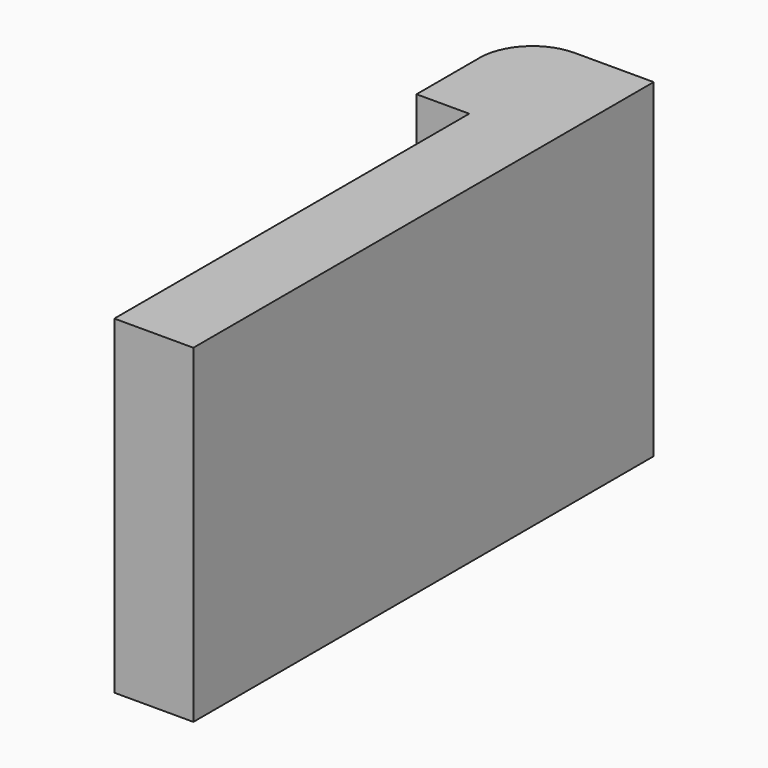
from build123d import *

# Parameters (mm, degrees)
F1_DEPTH = 10


with BuildPart() as f1:
    # F0 (on Top) → F1 (new body)
    with BuildSketch(Plane.XY):
        Polygon((-44.130353, 14.681706), (-44.130353, 1.213891), (-41.730353, 1.213891), (-41.730353, 18.681706), (-44.130353, 18.681706), align=None)
        with BuildLine():
            Line((-45.730353, 14.681706), (-44.130353, 14.681706))
            Line((-44.130353, 14.681706), (-44.130353, 18.681706))
            ThreePointArc((-44.130353, 18.681706), (-45.261724, 18.213077), (-45.730353, 17.081706))
            Line((-45.730353, 17.081706), (-45.730353, 14.681706))
        make_face()
    extrude(amount=-F1_DEPTH)


solid = f1.part
